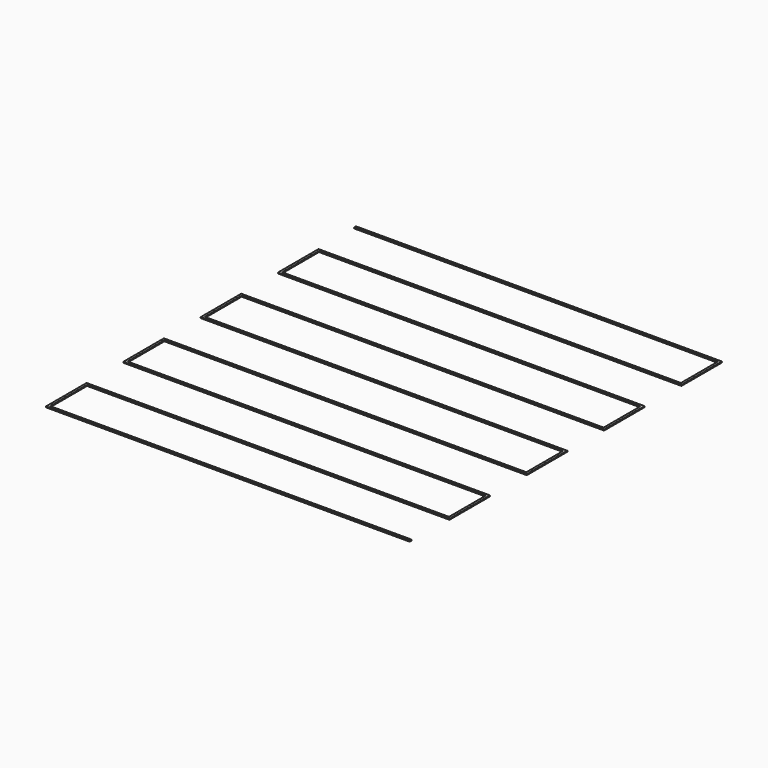
from build123d import *

# Parameters (mm, degrees)
F2_DEPTH  = 0.4
F2_FACE_W = 0.96
F2_FACE_H = 0.4


with BuildPart() as f2:
    # F1 (on Top) → F2 (new body)
    with BuildSketch(Plane.XY):
        Polygon((-75, 84.52), (-75, 85), (-75, 85.48), (-76, 85.48), (-76, 84.52), align=None)
    extrude(amount=F2_DEPTH)

    # F3: sweep along a path in F1
    with BuildLine(Plane.XY) as f3_path:
        Line((-75, 85), (75, 85))
        Line((75, 85), (75, 65))
        Line((75, 65), (-75, 65))
        Line((-75, 65), (-75, 45))
        Line((-75, 45), (75, 45))
        Line((75, 45), (75, 25))
        Line((75, 25), (-75, 25))
        Line((-75, 25), (-75, 5))
        Line((-75, 5), (75, 5))
        Line((75, 5), (75, -15))
        Line((75, -15), (-75, -15))
        Line((-75, -15), (-75, -35))
        Line((-75, -35), (75, -35))
        Line((75, -35), (75, -55))
        Line((75, -55), (-75, -55))
        Line((-75, -55), (-75, -75))
        Line((-75, -75), (75, -75))
    # F2_face (on face) → F3 (sweep)
    with BuildSketch(Plane(origin=(-75, 85, 0.2), x_dir=(0, 1, 0), z_dir=(1, 0, 0))):
        Rectangle(F2_FACE_W, F2_FACE_H)
    sweep(path=f3_path.line, transition=Transition.RIGHT)


solid = f2.part
